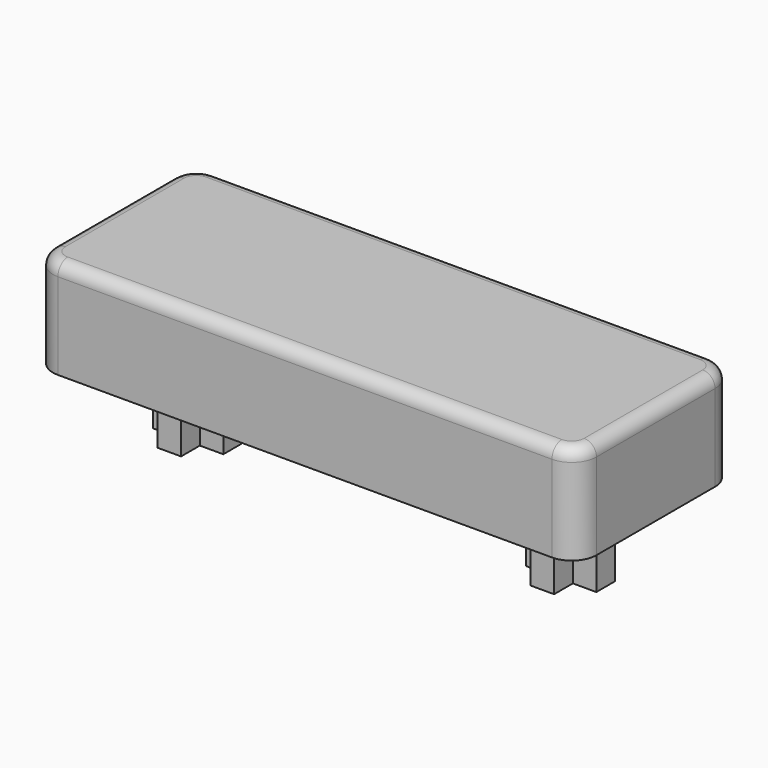
from build123d import *

# Parameters (mm, degrees)
EXTRUDE_DEPTH    = 8
FILLET_R         = 1
EXTRUDE001_DEPTH = 6
EXTRUDE002_DEPTH = 6


with BuildPart() as fillet_body:
    # Sketch → Extrude (new body)
    with BuildSketch(Plane.XY):
        with BuildLine():
            Line((-20, 8), (20, 8))
            ThreePointArc((22, 6), (21.414214, 7.414214), (20, 8))
            Line((22, 6), (22, -6))
            ThreePointArc((20, -8), (21.414214, -7.414214), (22, -6))
            Line((20, -8), (-20, -8))
            ThreePointArc((-22, -6), (-21.414214, -7.414214), (-20, -8))
            Line((-22, -6), (-22, 6))
            ThreePointArc((-20, 8), (-21.414214, 7.414214), (-22, 6))
        make_face()
    extrude(amount=EXTRUDE_DEPTH)

    # Fillet
    fillet_edges = [fillet_body.edges().sort_by_distance(p)[0] for p in [
        (-22, 0, 8),
        (-21.414214, 7.414214, 8),
        (0, 8, 8),
        (21.414214, 7.414214, 8),
        (22, 0, 8),
        (21.414214, -7.414214, 8),
        (0, -8, 8),
        (-21.414214, -7.414214, 8),
    ]]
    fillet(fillet_edges, radius=FILLET_R)


with BuildPart() as extrude001:
    # Sketch001 → Extrude001 (new body)
    with BuildSketch(Plane.XY):
        Polygon((-17.95, 0.949994), (-16.05, 0.949994), (-16.05, 2.849994), (-14.15, 2.849994), (-14.15, 0.949994), (-12.25, 0.950006), (-12.25, -0.949994), (-14.15, -0.949994), (-14.15, -2.849994), (-16.05, -2.850006), (-16.05, -0.950006), (-17.95, -0.950006), align=None)
    extrude(amount=-EXTRUDE001_DEPTH)


with BuildPart() as extrude002:
    # MirroredSketch → Extrude002 (new body)
    with BuildSketch(Plane.XY):
        Polygon((17.95, 0.949994), (16.05, 0.949994), (16.05, 2.849994), (14.15, 2.849994), (14.15, 0.949994), (12.25, 0.950006), (12.25, -0.949994), (14.15, -0.949994), (14.15, -2.849994), (16.05, -2.850006), (16.05, -0.950006), (17.95, -0.950006), align=None)
    extrude(amount=-EXTRUDE002_DEPTH)


solid = Compound([fillet_body.part, extrude001.part, extrude002.part])
